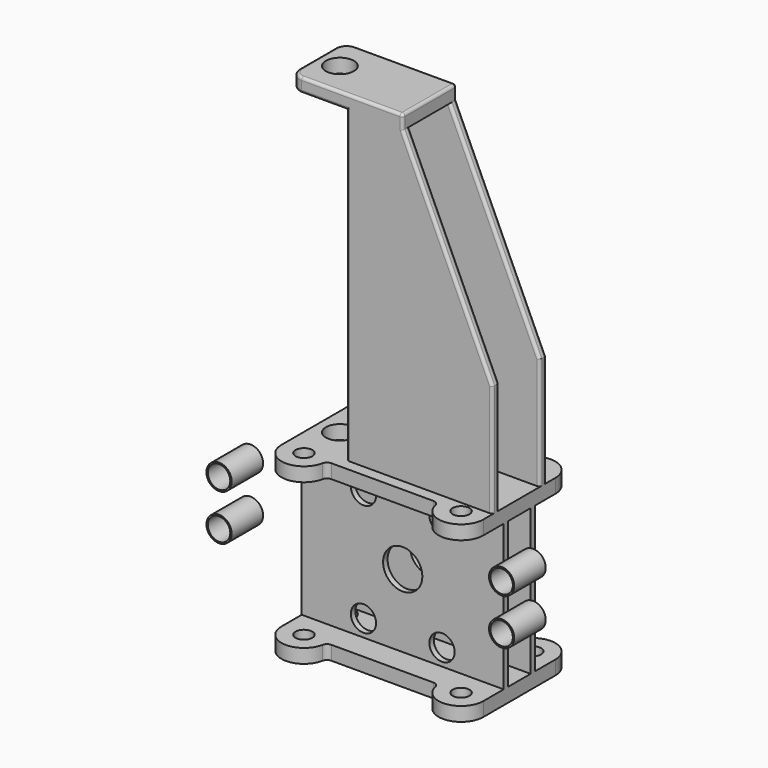
from build123d import *

# Parameters (mm, degrees)
F0_R      = 25
F0_R_2    = 15
F1_DEPTH  = 25
F2_R      = 10
F4_DEPTH  = 260
F5_R      = 15
F6_DEPTH  = 25
F7_R      = 22.5
F7_R_2    = 35
F8_DEPTH  = 70
F9_R      = 22.5
F9_R_2    = 20
F10_DEPTH = 70
F11_W     = 260
F11_H     = 15
F12_DEPTH = 550
F14_DEPTH = 35
F16_DEPTH = 70
F17_R     = 25
F17_W     = 100
F17_H     = 15
F18_DEPTH = 25
F19_R     = 20
F20_R     = 5


with BuildPart() as f1:
    # F0 (on Top) → F1 (new body)
    with BuildSketch(Plane.XY):
        with BuildLine():
            Line((100, 80), (-100, 80))
            ThreePointArc((-100, 80), (-140, 40), (-180, 80))
            Line((-180, 80), (-180, -80))
            ThreePointArc((-180, -80), (-140, -40), (-100, -80))
            Line((-100, -80), (100, -80))
            ThreePointArc((100, -80), (140, -40), (180, -80))
            Line((180, -80), (180, 80))
            ThreePointArc((180, 80), (140, 40), (100, 80))
        make_face()
        with Locations((-140, 0)):
            Circle(F0_R, mode=Mode.SUBTRACT)
        with BuildLine():
            ThreePointArc((-180, 80), (-140, 40), (-100, 80))
            ThreePointArc((-100, 80), (-140, 120), (-180, 80))
        make_face()
        with Locations((-140, 80)):
            Circle(F0_R_2, mode=Mode.SUBTRACT)
        with BuildLine():
            ThreePointArc((180, 80), (140, 120), (100, 80))
            ThreePointArc((100, 80), (140, 40), (180, 80))
        make_face()
        with Locations((140, 80)):
            Circle(F0_R_2, mode=Mode.SUBTRACT)
        with BuildLine():
            ThreePointArc((100, -80), (140, -120), (180, -80))
            ThreePointArc((180, -80), (140, -40), (100, -80))
        make_face()
        with Locations((140, -80)):
            Circle(F0_R_2, mode=Mode.SUBTRACT)
        with BuildLine():
            ThreePointArc((-100, -80), (-140, -40), (-180, -80))
            ThreePointArc((-180, -80), (-140, -120), (-100, -80))
        make_face()
        with Locations((-140, -80)):
            Circle(F0_R_2, mode=Mode.SUBTRACT)
    extrude(amount=F1_DEPTH)

    # F2
    f2_edges = [f1.edges().sort_by_distance(p)[0] for p in [
        (-100, 80, 12.5),
        (100, 80, 12.5),
        (100, -80, 12.5),
        (-100, -80, 12.5),
    ]]
    fillet(f2_edges, radius=F2_R)

    # F3 (on face) → F4 (join)
    with BuildSketch(Plane(origin=(0, 0, 0), x_dir=(1, 0, 0), z_dir=(0, 0, -1))):
        Polygon((-180, 35), (-180, 25), (-140, 25), (180, 25), (180, 35), align=None)
        Polygon((-140, -25), (-180, -25), (-180, -35), (180, -35), (180, -25), align=None)
    extrude(amount=F4_DEPTH)

    # F5 (on face) → F6 (join)
    with BuildSketch(Plane(origin=(0, 0, -260), x_dir=(1, 0, 0), z_dir=(0, 0, -1))):
        with BuildLine():
            Line((-180, 80), (-180, 35))
            Line((-180, 35), (180, 35))
            Line((180, 35), (180, 80))
            ThreePointArc((180, 80), (144.0203584802, 119.7974461202), (100.8081641155, 88))
            ThreePointArc((100.8081641155, 88), (97.3347604647, 82.2540333076), (91.0102051443, 80))
            Line((91.0102051443, 80), (-91.0102051443, 80))
            ThreePointArc((-91.0102051443, 80), (-97.3347604647, 82.2540333076), (-100.8081641155, 88))
            ThreePointArc((-100.8081641155, 88), (-144.0203584802, 119.7974461202), (-180, 80))
        make_face()
        with Locations((-140, 80)):
            Circle(F5_R, mode=Mode.SUBTRACT)
        with Locations((140, 80)):
            Circle(F5_R, mode=Mode.SUBTRACT)
        Polygon((180, 35), (-180, 35), (-180, 25), (-140, 25), (180, 25), align=None)
        with BuildLine():
            Line((-140, 25), (-180, 25))
            Line((-180, 25), (-180, -25))
            Line((-180, -25), (-140, -25))
            ThreePointArc((-140, -25), (-165, 0), (-140, 25))
        make_face()
        with BuildLine():
            Line((180, -25), (180, 25))
            Line((180, 25), (-140, 25))
            ThreePointArc((-140, 25), (-115, 0), (-140, -25))
            Line((-140, -25), (180, -25))
        make_face()
        Polygon((-140, -25), (-180, -25), (-180, -35), (180, -35), (180, -25), align=None)
        with BuildLine():
            Line((180, -35), (-180, -35))
            Line((-180, -35), (-180, -80))
            ThreePointArc((-180, -80), (-144.0203584802, -119.7974461202), (-100.8081641155, -88))
            ThreePointArc((-100.8081641155, -88), (-97.3347604647, -82.2540333076), (-91.0102051443, -80))
            Line((-91.0102051443, -80), (91.0102051443, -80))
            ThreePointArc((91.0102051443, -80), (97.3347604647, -82.2540333076), (100.8081641155, -88))
            ThreePointArc((100.8081641155, -88), (144.0203584802, -119.7974461202), (180, -80))
            Line((180, -80), (180, -35))
        make_face()
        with Locations((-140, -80)):
            Circle(F5_R, mode=Mode.SUBTRACT)
        with Locations((140, -80)):
            Circle(F5_R, mode=Mode.SUBTRACT)
    extrude(amount=F6_DEPTH)

    # F7 (on face) → F8 (cut)
    with BuildSketch(Plane.XZ.offset(35)):
        with Locations((-70, -30)):
            Circle(F7_R)
        with Locations((70, -30)):
            Circle(F7_R)
        with Locations((0, -130)):
            Circle(F7_R_2)
        with Locations((70, -230)):
            Circle(F7_R)
        with Locations((-70, -230)):
            Circle(F7_R)
    extrude(amount=-F8_DEPTH, mode=Mode.SUBTRACT)

    # F11 (on face) → F12 (join)
    with BuildSketch(Plane.XY.offset(25)):
        with Locations((50, 52.5)):
            Rectangle(F11_W, F11_H)
        with Locations((50, -52.5)):
            Rectangle(F11_W, F11_H)
    extrude(amount=F12_DEPTH)

    # F13 (on face) → F14 (cut, symmetric)
    with BuildSketch(Plane.XZ.offset(60)):
        Polygon((180, 575), (20, 575), (180, 225), align=None)
    extrude(amount=F14_DEPTH, both=True, mode=Mode.SUBTRACT)

    # F15 (on face) → F16 (cut)
    with BuildSketch(Plane(origin=(0, 60, 0), x_dir=(-1, 0, 0), z_dir=(0, 1, 0))):
        Polygon((-180, 225), (-20, 575), (-180, 575), align=None)
    extrude(amount=-F16_DEPTH, mode=Mode.SUBTRACT)

    # F17 (on face) → F18 (join)
    with BuildSketch(Plane.XY.offset(575)):
        Polygon((-180, -60), (-80, -60), (-80, -45), (20, -45), (20, 45), (-80, 45), (-80, 60), (-180, 60), align=None)
        with Locations((-140, 0)):
            Circle(F17_R, mode=Mode.SUBTRACT)
        with Locations((-30, 52.5)):
            Rectangle(F17_W, F17_H)
        with Locations((-30, -52.5)):
            Rectangle(F17_W, F17_H)
    extrude(amount=F18_DEPTH)

    # F19
    f19_edges = [f1.edges().sort_by_distance(p)[0] for p in [
        (-180, 60, 587.5),
        (-180, -60, 587.5),
    ]]
    fillet(f19_edges, radius=F19_R)

    # F20
    f20_edges = [f1.edges().sort_by_distance(p)[0] for p in [
        (20, 0, 600),
        (20, -60, 587.5),
        (20, 60, 587.5),
        (100, 60, 400),
        (100, 45, 400),
        (180, 45, 125),
        (180, 60, 125),
        (-80, 60, 300),
        (-80, 45, 300),
        (-80, -60, 300),
        (-80, -45, 300),
        (-180, 0, 600),
        (-180, 0, 575),
        (100, -60, 400),
        (180, -60, 125),
        (180, -45, 125),
        (100, -45, 400),
    ]]
    fillet(f20_edges, radius=F20_R)


with BuildPart() as f10:
    # F9 (on face) → F10 (new body)
    with BuildSketch(Plane.XZ.offset(35)):
        with Locations((-271.361607454, -44.8643562805)):
            Circle(F9_R)
        with Locations((-271.361607454, -44.8643562805)):
            Circle(F9_R_2, mode=Mode.SUBTRACT)
    extrude(amount=F10_DEPTH)


with BuildPart() as f10b:
    # F9 (on face) → F10, piece 2 (new body)
    with BuildSketch(Plane.XZ.offset(35)):
        with Locations((-271.361607454, -126.6763324428)):
            Circle(F9_R)
        with Locations((-271.361607454, -126.6763324428)):
            Circle(F9_R_2, mode=Mode.SUBTRACT)
    extrude(amount=F10_DEPTH)


with BuildPart() as f10c:
    # F9 (on face) → F10, piece 3 (new body)
    with BuildSketch(Plane.XZ.offset(35)):
        with Locations((232.3528708436, -44.8643562805)):
            Circle(F9_R)
        with Locations((232.3528708436, -44.8643562805)):
            Circle(F9_R_2, mode=Mode.SUBTRACT)
    extrude(amount=F10_DEPTH)


with BuildPart() as f10d:
    # F9 (on face) → F10, piece 4 (new body)
    with BuildSketch(Plane.XZ.offset(35)):
        with Locations((232.3528708436, -126.6763324428)):
            Circle(F9_R)
        with Locations((232.3528708436, -126.6763324428)):
            Circle(F9_R_2, mode=Mode.SUBTRACT)
    extrude(amount=F10_DEPTH)


solid = Compound([f1.part, f10.part, f10b.part, f10c.part, f10d.part])
